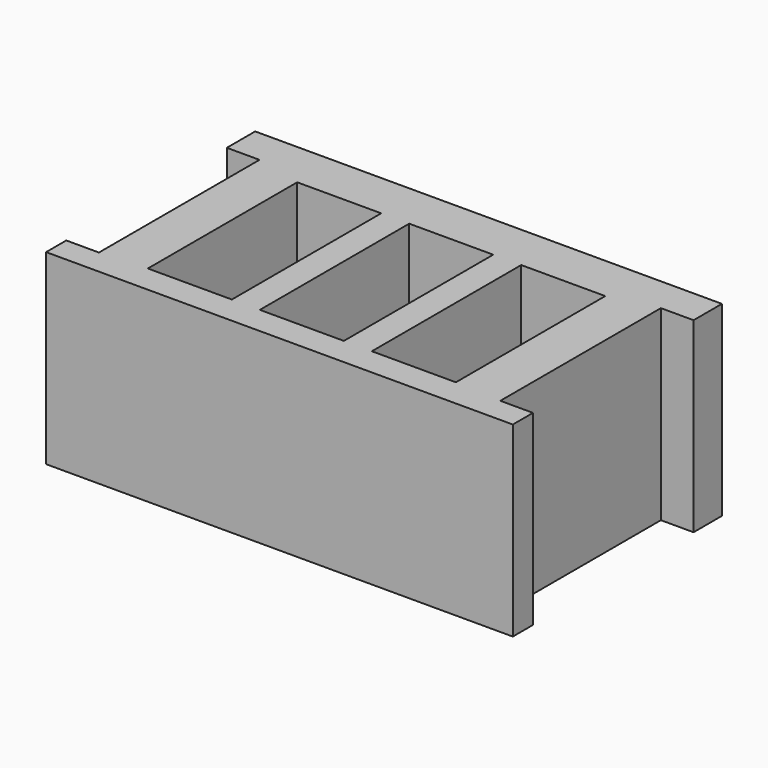
from build123d import *

# Parameters (mm, degrees)
F0_W     = 22.86
F0_H     = 50.8
F1_DEPTH = 50.8


with BuildPart() as f1:
    # F0 (on Top) → F1 (new body)
    with BuildSketch(Plane.XY):
        Polygon((56.896489, 42.170627), (-6.603511, 42.170627), (-70.103511, 42.170627), (-70.103511, 32.525493), (-61.213511, 32.525493), (-61.213511, -22.084507), (-70.103511, -22.084507), (-70.103511, -28.949373), (56.896489, -28.949373), (56.896489, -22.084507), (48.006489, -22.084507), (48.006489, 32.525493), (56.896489, 32.525493), align=None)
        with Locations((-37.083511, 4.070627)):
            Rectangle(F0_W, F0_H, mode=Mode.SUBTRACT)
        with Locations((-6.603511, 4.070627)):
            Rectangle(F0_W, F0_H, mode=Mode.SUBTRACT)
        with Locations((23.876489, 4.070627)):
            Rectangle(F0_W, F0_H, mode=Mode.SUBTRACT)
    extrude(amount=F1_DEPTH)


solid = f1.part
